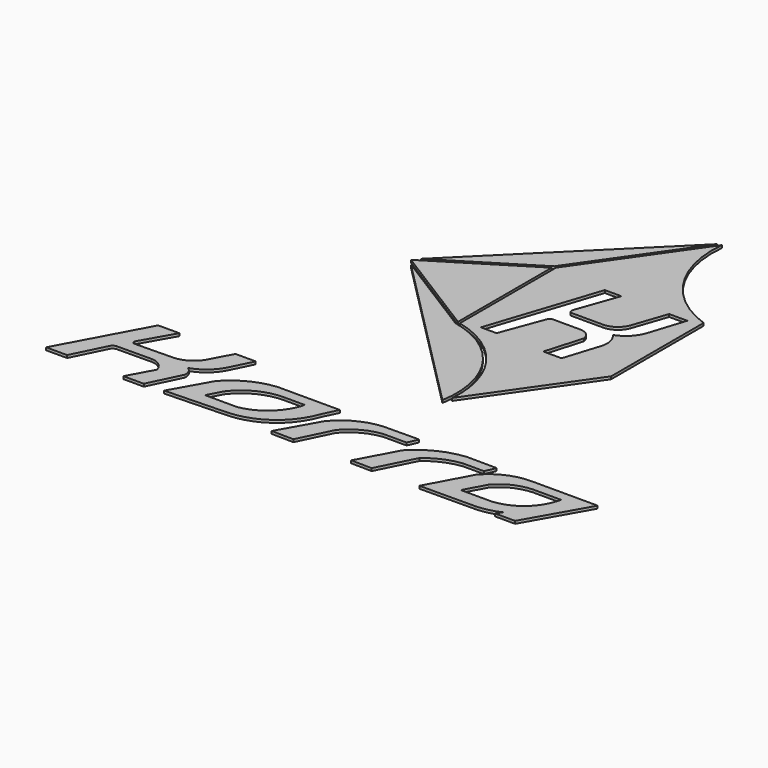
from build123d import *

# Parameters (mm, degrees)
F1_DEPTH = 0.2
F2_SCALE = 0.3


with BuildPart() as f1:
    # F0 (on Top) → F1 (new body)
    with BuildSketch(Plane.XY):
        with BuildLine():
            Line((0.3221887287, -1.2390491494), (5.9381237452, 6.8029700547))
            Line((5.9381237452, 6.8029700547), (5.9381237452, 15.5676616906))
            ThreePointArc((5.9381237452, 15.5676616906), (1.7723507567, 18.8624852196), (0.551509194, 24.0315347027))
            Line((0.551509194, 24.0315347027), (-5.3026779883, 15.6483383863))
            Line((-5.3026779883, 15.6483383863), (-5.3026779883, 6.5205997522))
            ThreePointArc((-5.3026779883, 6.5205997522), (-1.0395342394, 3.6923760496), (0.3221887287, -1.2390491494))
        make_face()
        with BuildLine():
            Line((-4.0039531887, 6.8868417293), (-1.2578062015, 15.2005720884))
            Line((-1.2578062015, 15.2005720884), (0, 15.2005720884))
            Line((0, 15.2005720884), (-1.1304413683, 12.0364315361))
            ThreePointArc((-1.1304413683, 12.0364315361), (-1.1332673696, 11.8427166471), (-1.0282194708, 11.6799334064))
            Line((-1.0282194708, 11.6799334064), (1.4081238769, 11.6799334064))
            ThreePointArc((1.4081238769, 11.6799334064), (2.2214482851, 11.9320780556), (2.7495124377, 12.6000763848))
            Line((2.7495124377, 12.6000763848), (3.6309957504, 15.181590803))
            Line((3.6309957504, 15.181590803), (5.0107096322, 15.181590803))
            Line((5.0107096322, 15.181590803), (4.1420012712, 12.4715473503))
            ThreePointArc((4.1420012712, 12.4715473503), (3.5967677723, 11.5672258478), (2.7040650602, 11.0031701624))
            ThreePointArc((2.7040650602, 11.0031701624), (3.0871173523, 10.2828780548), (3.0534872785, 9.4677591696))
            Line((3.0534872785, 9.4677591696), (2.2027201485, 6.7769880407))
            Line((2.2027201485, 6.7769880407), (0.820223242, 6.7769880407))
            Line((0.820223242, 6.7769880407), (1.6406058567, 9.589375928))
            ThreePointArc((1.6406058567, 9.589375928), (1.3551604564, 10.1310381804), (0.782554911, 10.3478329256))
            Line((0.782554911, 10.3478329256), (-1.3016803423, 10.3478329256))
            ThreePointArc((-1.3016803423, 10.3478329256), (-1.4779448579, 10.2890176936), (-1.5963046791, 10.1457718779))
            Line((-1.5963046791, 10.1457718779), (-2.8115476016, 6.8868417293))
            Line((-2.8115476016, 6.8868417293), (-4.0039531887, 6.8868417293))
        make_face(mode=Mode.SUBTRACT)
    extrude(amount=-F1_DEPTH)


with BuildPart() as f1b:
    # F0 (on Top) → F1, piece 2 (new body)
    with BuildSketch(Plane.XY):
        with BuildLine():
            ThreePointArc((0.0455915557, -1.8117811989), (-1.0759408053, 3.3961031617), (-5.5026779883, 6.3598663546))
            Line((-5.5026779883, 6.3598663546), (-12.2704175663, 10.5954582346))
            Line((-12.2704175663, 10.5954582346), (0.0455915557, -1.8117811989))
        make_face()
    extrude(amount=-F1_DEPTH)


with BuildPart() as f1c:
    # F0 (on Top) → F1, piece 3 (new body)
    with BuildSketch(Plane.XY):
        Polygon((-5.5026779883, 6.5958060592), (-5.5026779883, 15.4760383667), (-12.635980278, 11.0601854738), align=None)
    extrude(amount=-F1_DEPTH)


with BuildPart() as f1d:
    # F0 (on Top) → F1, piece 4 (new body)
    with BuildSketch(Plane.XY):
        Polygon((-12.2601570899, 11.528058606), (-5.5026779883, 15.7112590969), (0.2434776577, 23.9397542483), align=None)
    extrude(amount=-F1_DEPTH)


with BuildPart() as f1e:
    # F0 (on Top) → F1, piece 5 (new body)
    with BuildSketch(Plane.XY):
        with BuildLine():
            Line((15.6719795434, -6.6372910397), (10.644714348, -6.6343117505))
            ThreePointArc((10.644714348, -6.6343117505), (8.956874135, -6.9996048306), (7.5723426417, -8.0317463726))
            Line((7.5723426417, -8.0317463726), (5.8395114478, -11.2419195165))
            Line((5.8395114478, -11.2419195165), (10.0254435092, -11.213440448))
            ThreePointArc((10.0254435092, -11.213440448), (10.9668398403, -11.1011779704), (11.8598518893, -10.7828080654))
            Line((11.8598518893, -10.7828080654), (11.5375751629, -11.213440448))
            Line((11.5375751629, -11.213440448), (13.0737610161, -11.213440448))
            Line((13.0737610161, -11.213440448), (15.6719795434, -6.6372910397))
        make_face()
        with BuildLine():
            ThreePointArc((8.9473901317, -8.5692228749), (10.0420664485, -7.7394049699), (11.3752083853, -7.4082757346))
            Line((11.3752083853, -7.4082757346), (13.5249486193, -7.4082757346))
            Line((13.5249486193, -7.4082757346), (13.4377796203, -7.7092619613))
            ThreePointArc((13.4377796203, -7.7092619613), (12.3172915564, -9.3821473425), (10.4513484985, -10.1386494935))
            Line((10.4513484985, -10.1386494935), (8.0999564379, -10.1386494935))
            Line((8.0999564379, -10.1386494935), (8.9473901317, -8.5692228749))
        make_face(mode=Mode.SUBTRACT)
    extrude(amount=-F1_DEPTH)


with BuildPart() as f1f:
    # F0 (on Top) → F1, piece 6 (new body)
    with BuildSketch(Plane.XY):
        with BuildLine():
            Line((7.9989461764, -6.6110268672), (5.7461061515, -6.5913153812))
            ThreePointArc((5.7461061515, -6.5913153812), (3.8269548312, -7.1288721816), (2.2225470748, -8.3112362772))
            Line((2.2225470748, -8.3112362772), (0.6559555881, -11.213440448))
            Line((0.6559555881, -11.213440448), (2.2225470748, -11.2419195165))
            Line((2.2225470748, -11.2419195165), (3.6190801766, -8.4617296234))
            ThreePointArc((3.6190801766, -8.4617296234), (4.7548095867, -7.7476826092), (6.0468981974, -7.386778947))
            Line((6.0468981974, -7.386778947), (7.6567602687, -7.3867780156))
            Line((7.6567602687, -7.3867780156), (7.9989461764, -6.6110268672))
        make_face()
    extrude(amount=-F1_DEPTH)


with BuildPart() as f1g:
    # F0 (on Top) → F1, piece 7 (new body)
    with BuildSketch(Plane.XY):
        with BuildLine():
            ThreePointArc((-2.486287849, -8.7412158027), (-1.3708885374, -7.8295011783), (0, -7.3867780156))
            Line((0, -7.3867780156), (1.7875585472, -7.3867780156))
            Line((1.7875585472, -7.3867780156), (2.1217935719, -6.6148531623))
            Line((2.1217935719, -6.6148531623), (0, -6.6343126819))
            ThreePointArc((0, -6.6343126819), (-2.0490469004, -7.011625802), (-3.7109393161, -8.268237114))
            Line((-3.7109393161, -8.268237114), (-5.3702842035, -11.213440448))
            Line((-5.3702842035, -11.213440448), (-3.7109393161, -11.2419195165))
            Line((-3.7109393161, -11.2419195165), (-2.486287849, -8.7412158027))
        make_face()
    extrude(amount=-F1_DEPTH)


with BuildPart() as f1h:
    # F0 (on Top) → F1, piece 8 (new body)
    with BuildSketch(Plane.XY):
        with BuildLine():
            Line((-3.9036741946, -6.5913149156), (-8.6095463485, -6.5913149156))
            ThreePointArc((-8.6095463485, -6.5913149156), (-10.4468670481, -7.12185676), (-11.9612244889, -8.2897366956))
            Line((-11.9612244889, -8.2897366956), (-13.5733263679, -11.1510875002))
            Line((-13.5733263679, -11.1510875002), (-8.9242989197, -11.0012982041))
            ThreePointArc((-8.9242989197, -11.0012982041), (-6.1667191094, -10.0440713662), (-4.4402293861, -7.6904012822))
            Line((-4.4402293861, -7.6904012822), (-3.9036741946, -6.5913149156))
        make_face()
        with BuildLine():
            ThreePointArc((-5.9883617796, -7.6232668944), (-7.0888461772, -9.2542353693), (-8.8673681021, -10.0956531242))
            Line((-8.8673681021, -10.0956531242), (-11.3260233775, -10.0956531242))
            Line((-11.3260233775, -10.0956531242), (-10.7150869444, -8.9674610645))
            ThreePointArc((-10.7150869444, -8.9674610645), (-9.2870890069, -7.8032245883), (-7.4923196808, -7.3867780156))
            Line((-7.4923196808, -7.3867780156), (-5.9476941824, -7.3867780156))
            Line((-5.9476941824, -7.3867780156), (-5.9883617796, -7.6232668944))
        make_face(mode=Mode.SUBTRACT)
    extrude(amount=-F1_DEPTH)


with BuildPart() as f1i:
    # F0 (on Top) → F1, piece 9 (new body)
    with BuildSketch(Plane.XY):
        with BuildLine():
            ThreePointArc((-14.1671802849, -6.6148531623), (-14.8395201872, -7.2349347814), (-15.7118886709, -7.5097354129))
            Line((-15.7118886709, -7.5097354129), (-18.6945162714, -7.5642843731))
            ThreePointArc((-18.6945162714, -7.5642843731), (-18.8379589434, -7.4818591939), (-18.8768226653, -7.3210508563))
            Line((-18.8768226653, -7.3210508563), (-17.4670927227, -4.8431316391))
            Line((-17.4670927227, -4.8431316391), (-19.0745219588, -4.8431316391))
            Line((-19.0745219588, -4.8431316391), (-22.49625884, -11.1821033061))
            Line((-22.49625884, -11.1821033061), (-20.9010709077, -11.1821033061))
            Line((-20.9010709077, -11.1821033061), (-19.6871310472, -8.7255975232))
            ThreePointArc((-19.6871310472, -8.7255975232), (-19.5357739882, -8.5461370978), (-19.3165130913, -8.4622344002))
            Line((-19.3165130913, -8.4622344002), (-16.7060699314, -8.4407348186))
            ThreePointArc((-16.7060699314, -8.4407348186), (-15.9887854149, -8.68665027), (-15.5837750062, -9.3276947737))
            Line((-15.5837750062, -9.3276947737), (-16.6168492287, -11.213440448))
            Line((-16.6168492287, -11.213440448), (-15.066714026, -11.213440448))
            Line((-15.066714026, -11.213440448), (-13.8961784542, -8.8023440912))
            ThreePointArc((-13.8961784542, -8.8023440912), (-13.9701576636, -8.3385560844), (-14.3026812002, -8.0068930984))
            ThreePointArc((-14.3026812002, -8.0068930984), (-13.3148360087, -7.4882155641), (-12.5773055479, -6.6510098986))
            Line((-12.5773055479, -6.6510098986), (-11.6788372397, -4.8431316391))
            Line((-11.6788372397, -4.8431316391), (-13.2108161934, -4.8431316391))
            Line((-13.2108161934, -4.8431316391), (-14.1671802849, -6.6148531623))
        make_face()
    extrude(amount=-F1_DEPTH)


with BuildPart() as f1b_1:
    # F2: moved
    add(f1b.part.scale(F2_SCALE))


with BuildPart() as f1i_1:
    # F2: moved
    add(f1i.part.scale(F2_SCALE))


with BuildPart() as f1h_1:
    # F2: moved
    add(f1h.part.scale(F2_SCALE))


with BuildPart() as f1g_1:
    # F2: moved
    add(f1g.part.scale(F2_SCALE))


with BuildPart() as f1c_1:
    # F2: moved
    add(f1c.part.scale(F2_SCALE))


with BuildPart() as f1d_1:
    # F2: moved
    add(f1d.part.scale(F2_SCALE))


with BuildPart() as f1_1:
    # F2: moved
    add(f1.part.scale(F2_SCALE))


with BuildPart() as f1f_1:
    # F2: moved
    add(f1f.part.scale(F2_SCALE))


with BuildPart() as f1e_1:
    # F2: moved
    add(f1e.part.scale(F2_SCALE))


solid = Compound([f1b_1.part, f1i_1.part, f1h_1.part, f1g_1.part, f1c_1.part, f1d_1.part, f1_1.part, f1f_1.part, f1e_1.part])
